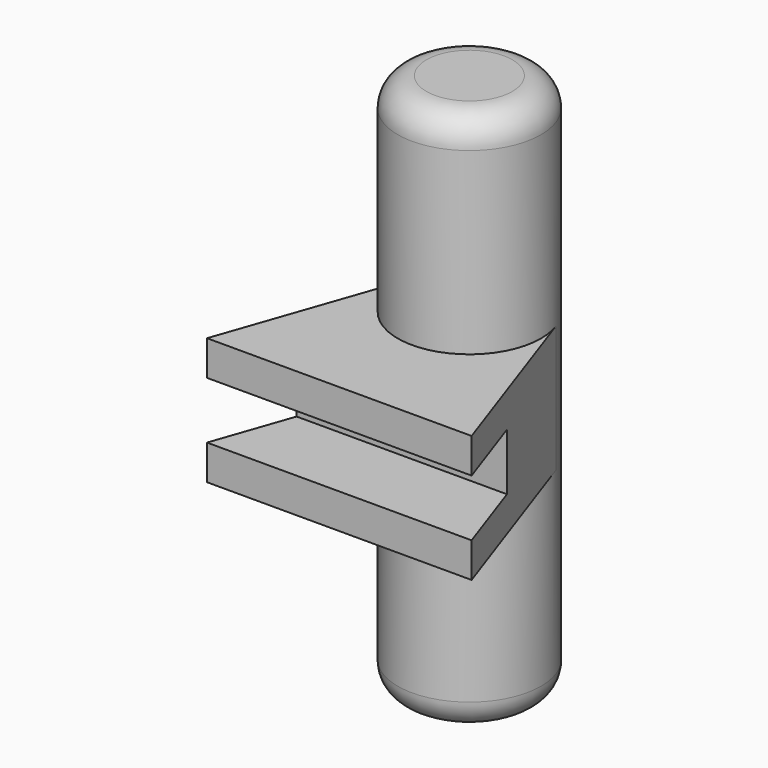
from build123d import *

# Parameters (mm, degrees)
F0_R     = 1.9812
F1_DEPTH = 7.5057
F3_DEPTH = 1.7526
F4_W     = 7.3152
F4_H     = 1.5748
F5_DEPTH = 2.159
F6_R     = 0.79375


with BuildPart() as f1:
    # F0 (on Top) → F1 (new body, symmetric)
    with BuildSketch(Plane.XY):
        Circle(F0_R)
    extrude(amount=F1_DEPTH, both=True)

    # F2 (on Top) → F3 (join, symmetric)
    with BuildSketch(Plane.XY):
        Polygon((1.871663, 0.649638), (-1.871663, 0.649638), (-3.6576, -4.4958), (0, -4.4958), (3.6576, -4.4958), align=None)
    extrude(amount=F3_DEPTH, both=True)

    # F4 (on face) → F5 (cut)
    with BuildSketch(Plane.XZ.offset(4.4958)):
        Rectangle(F4_W, F4_H)
    extrude(amount=-F5_DEPTH, mode=Mode.SUBTRACT)

    # F6
    f6_edges = [f1.edges().sort_by_distance(p)[0] for p in [
        (-1.9812, 0, 7.5057),
        (-1.9812, 0, -7.5057),
    ]]
    fillet(f6_edges, radius=F6_R)


solid = f1.part
